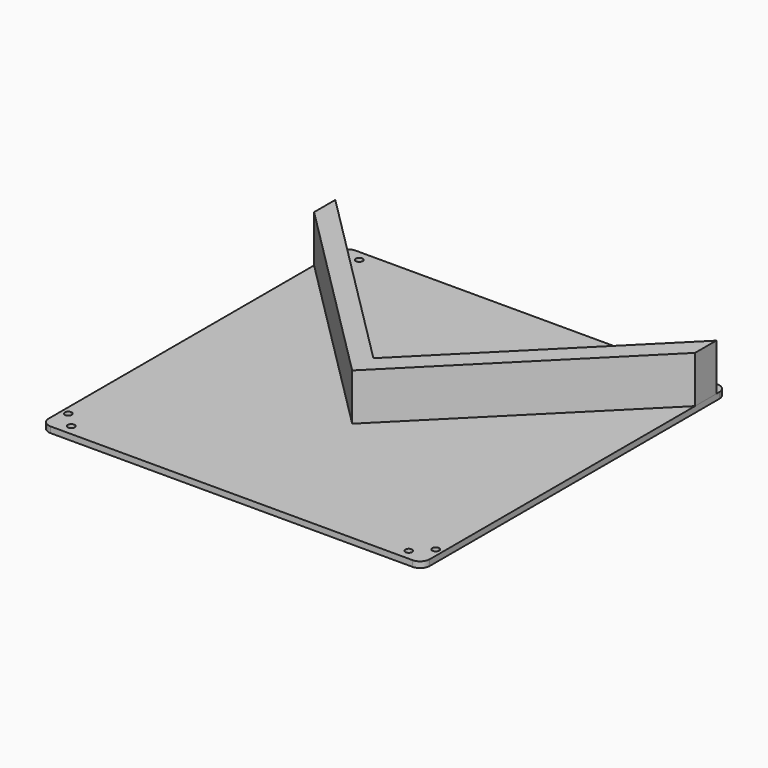
from build123d import *

# Parameters (mm, degrees)
F0_W     = 203.2
F0_H     = 203.2
F1_DEPTH = 3.175
F2_R     = 1.85039
F3_DEPTH = 25.4
F4_R     = 5.08
F5_R     = 5.08
F7_DEPTH = 25


with BuildPart() as f1:
    # F0 (on Top) → F1 (new body)
    with BuildSketch(Plane.XY):
        Rectangle(F0_W, F0_H)
    extrude(amount=F1_DEPTH)

    # F2 (on face) → F3 (cut)
    with BuildSketch(Plane.XY.offset(3.175)):
        with BuildLine():
            ThreePointArc((97.99955, 89.85123), (96.14916, 88.00084), (97.99955, 86.15045))
            Line((97.99955, 86.15045), (97.99955, 89.85123))
        make_face()
        with BuildLine():
            Line((97.99955, 89.85123), (97.99955, 86.15045))
            ThreePointArc((97.99955, 86.15045), (99.307973, 86.692417), (99.84994, 88.00084))
            ThreePointArc((99.84994, 88.00084), (99.307973, 89.309263), (97.99955, 89.85123))
        make_face()
        with BuildLine():
            ThreePointArc((99.84994, -88.00084), (99.307973, -86.692417), (97.99955, -86.15045))
            Line((97.99955, -86.15045), (97.99955, -89.85123))
            ThreePointArc((97.99955, -89.85123), (99.307973, -89.309263), (99.84994, -88.00084))
        make_face()
        with BuildLine():
            Line((97.99955, -89.85123), (97.99955, -86.15045))
            ThreePointArc((97.99955, -86.15045), (96.14916, -88.00084), (97.99955, -89.85123))
        make_face()
        with BuildLine():
            ThreePointArc((-96.14916, -88.00084), (-96.691127, -86.692417), (-97.99955, -86.15045))
            Line((-97.99955, -86.15045), (-97.99955, -89.85123))
            ThreePointArc((-97.99955, -89.85123), (-96.691127, -89.309263), (-96.14916, -88.00084))
        make_face()
        with BuildLine():
            Line((-97.99955, -89.85123), (-97.99955, -86.15045))
            ThreePointArc((-97.99955, -86.15045), (-99.84994, -88.00084), (-97.99955, -89.85123))
        make_face()
        with BuildLine():
            ThreePointArc((-97.99955, 89.85123), (-99.84994, 88.00084), (-97.99955, 86.15045))
            Line((-97.99955, 86.15045), (-97.99955, 89.85123))
        make_face()
        with BuildLine():
            Line((-97.99955, 89.85123), (-97.99955, 86.15045))
            ThreePointArc((-97.99955, 86.15045), (-96.691127, 86.692417), (-96.14916, 88.00084))
            ThreePointArc((-96.14916, 88.00084), (-96.691127, 89.309263), (-97.99955, 89.85123))
        make_face()
        with Locations((-89.99474, 96.00057)):
            Circle(F2_R)
        with Locations((89.99982, 96.00057)):
            Circle(F2_R)
        with Locations((89.99982, -96.00057)):
            Circle(F2_R)
        with Locations((-89.99982, -96.00057)):
            Circle(F2_R)
    extrude(amount=-F3_DEPTH, mode=Mode.SUBTRACT)

    # F4
    f4_edges = [f1.edges().sort_by_distance(p)[0] for p in [
        (-101.6, 101.6, 1.5875),
    ]]
    fillet(f4_edges, radius=F4_R)

    # F5
    f5_edges = [f1.edges().sort_by_distance(p)[0] for p in [
        (101.6, 101.6, 1.5875),
        (101.6, -101.6, 1.5875),
        (-101.6, -101.6, 1.5875),
    ]]
    fillet(f5_edges, radius=F5_R)


with BuildPart() as f7:
    # F6 (on face) → F7 (new body)
    with BuildSketch(Plane.XY.offset(3.175)):
        Polygon((0, -7.07107), (-101.6, 94.52893), (-101.6, 80.386794), (0, -21.213206), (7.071068, -14.142138), (52.932265, 31.719059), (101.6, 80.386794), (101.6, 94.52893), align=None)
    extrude(amount=F7_DEPTH)


solid = Compound([f1.part, f7.part])
